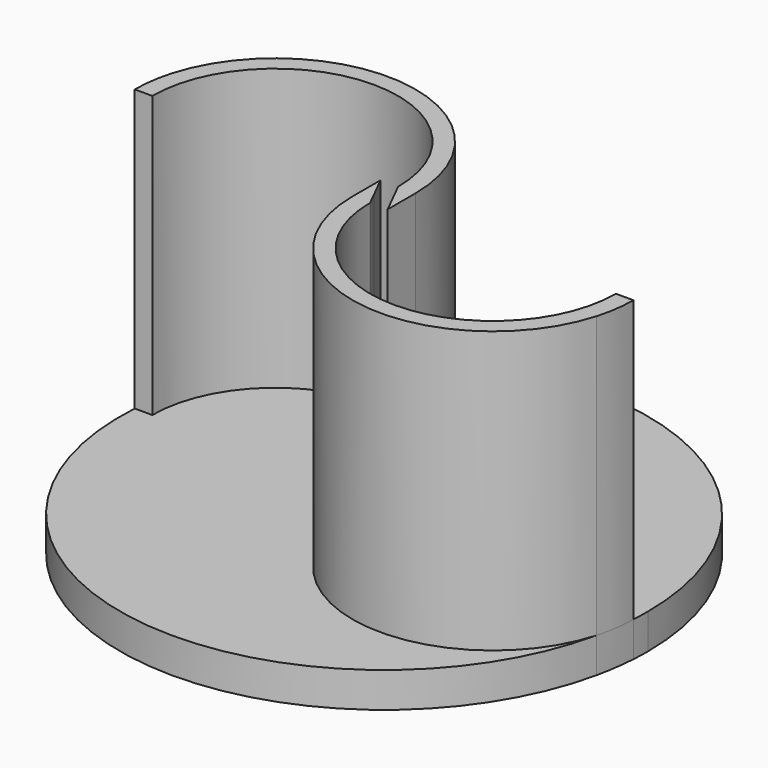
from build123d import *

# Parameters (mm, degrees)
F1_DEPTH = 80
F2_DEPTH = 10


with BuildPart() as f1:
    # F0 (on Top) → F1 (new body)
    with BuildSketch(Plane.XY):
        with BuildLine():
            ThreePointArc((65, 0), (30, -35), (-5, 0))
            Line((-5, 0), (-10, 0))
            ThreePointArc((-10, 0), (24.3431457505, -39.5979797464), (68.4, -11.2))
            ThreePointArc((68.4, -11.2), (69.4110206891, -5.6301458127), (70, 0))
            Line((70, 0), (65, 0))
        make_face()
        with BuildLine():
            ThreePointArc((68.4, -11.2), (69.5979797464, -5.6568542495), (70, 0))
            ThreePointArc((70, 0), (69.4110206891, -5.6301458127), (68.4, -11.2))
        make_face()
        Polygon((-10, 0), (-5, 0), (-7.0000000016, 4.0000000031), (-10, 10), align=None)
        with BuildLine():
            ThreePointArc((65, 0), (30, -35), (-5, 0))
            Line((-5, 0), (-10, 0))
            ThreePointArc((-10, 0), (24.3431457505, -39.5979797464), (68.4, -11.2))
            ThreePointArc((68.4, -11.2), (69.4110206891, -5.6301458127), (70, 0))
            Line((70, 0), (65, 0))
        make_face()
    extrude(amount=F1_DEPTH)


with BuildPart() as f1b:
    # F0 (on Top) → F1, piece 2 (new body)
    with BuildSketch(Plane.XY):
        with BuildLine():
            Line((-5, 10), (0, 10))
            ThreePointArc((0, 10), (-34.3431457505, 49.5979797464), (-78.4, 21.2))
            ThreePointArc((-78.4, 21.2), (-79.4110206891, 15.6301458127), (-80, 10))
            Line((-80, 10), (-75, 10))
            ThreePointArc((-75, 10), (-40, 45), (-5, 10))
        make_face()
        with BuildLine():
            ThreePointArc((-80, 10), (-79.4110206891, 15.6301458127), (-78.4, 21.2))
            ThreePointArc((-78.4, 21.2), (-79.5979797464, 15.6568542495), (-80, 10))
        make_face()
        Polygon((-2.9999999957, 5.9999999915), (0, 0), (0, 10), (-5, 10), align=None)
        with BuildLine():
            Line((-5, 10), (0, 10))
            ThreePointArc((0, 10), (-34.3431457505, 49.5979797464), (-78.4, 21.2))
            ThreePointArc((-78.4, 21.2), (-79.4110206891, 15.6301458127), (-80, 10))
            Line((-80, 10), (-75, 10))
            ThreePointArc((-75, 10), (-40, 45), (-5, 10))
        make_face()
    extrude(amount=F1_DEPTH)


with BuildPart() as f2:
    # F0 (on Top) → F2 (new body)
    with BuildSketch(Plane.XY):
        with BuildLine():
            ThreePointArc((68.4, -11.2), (24.3431457505, -39.5979797464), (-10, 0))
            Line((-10, 0), (-10, 10))
            Line((-10, 10), (-75, 10))
            Line((-75, 10), (-80, 10))
            ThreePointArc((-80, 10), (-15.6301458127, -69.4110206891), (68.4, -11.2))
        make_face()
        with BuildLine():
            Line((0, 10), (0, 0))
            Line((0, 0), (65, 0))
            Line((65, 0), (70, 0))
            ThreePointArc((70, 0), (70.1248498897, 2.4986145729), (70.1664818919, 5))
            ThreePointArc((70.1664818919, 5), (3.1480129215, 79.7235564292), (-78.4, 21.2))
            ThreePointArc((-78.4, 21.2), (-34.3431457505, 49.5979797464), (0, 10))
        make_face()
        with BuildLine():
            Line((-10, 10), (-5, 10))
            ThreePointArc((-5, 10), (-40, 45), (-75, 10))
            Line((-75, 10), (-10, 10))
        make_face()
        with BuildLine():
            Line((65, 0), (0, 0))
            Line((0, 0), (-5, 0))
            ThreePointArc((-5, 0), (30, -35), (65, 0))
        make_face()
        with BuildLine():
            Line((-5, 10), (0, 10))
            ThreePointArc((0, 10), (-34.3431457505, 49.5979797464), (-78.4, 21.2))
            ThreePointArc((-78.4, 21.2), (-79.4110206891, 15.6301458127), (-80, 10))
            Line((-80, 10), (-75, 10))
            ThreePointArc((-75, 10), (-40, 45), (-5, 10))
        make_face()
        with BuildLine():
            ThreePointArc((65, 0), (30, -35), (-5, 0))
            Line((-5, 0), (-10, 0))
            ThreePointArc((-10, 0), (24.3431457505, -39.5979797464), (68.4, -11.2))
            ThreePointArc((68.4, -11.2), (69.4110206891, -5.6301458127), (70, 0))
            Line((70, 0), (65, 0))
        make_face()
        with BuildLine():
            Line((-5, 0), (0, 0))
            Line((0, 0), (-2.9999999957, 5.9999999915))
            ThreePointArc((-2.9999999957, 5.9999999915), (-2.8237490994, 5.5137431437), (-2.7639320225, 5))
            ThreePointArc((-2.7639320225, 5), (-4.4862568533, 2.8237491001), (-7.0000000016, 4.0000000031))
            Line((-7.0000000016, 4.0000000031), (-5, 0))
        make_face()
        with BuildLine():
            ThreePointArc((-7.0000000016, 4.0000000031), (-5.9999999942, 7.0000000029), (-2.9999999957, 5.9999999915))
            Line((-2.9999999957, 5.9999999915), (-5, 10))
            Line((-5, 10), (-10, 10))
            Line((-10, 10), (-7.0000000016, 4.0000000031))
        make_face()
        Polygon((-10, 0), (-5, 0), (-7.0000000016, 4.0000000031), (-10, 10), align=None)
        Polygon((-2.9999999957, 5.9999999915), (0, 0), (0, 10), (-5, 10), align=None)
    extrude(amount=-F2_DEPTH)


solid = Compound([f1.part, f1b.part, f2.part])
